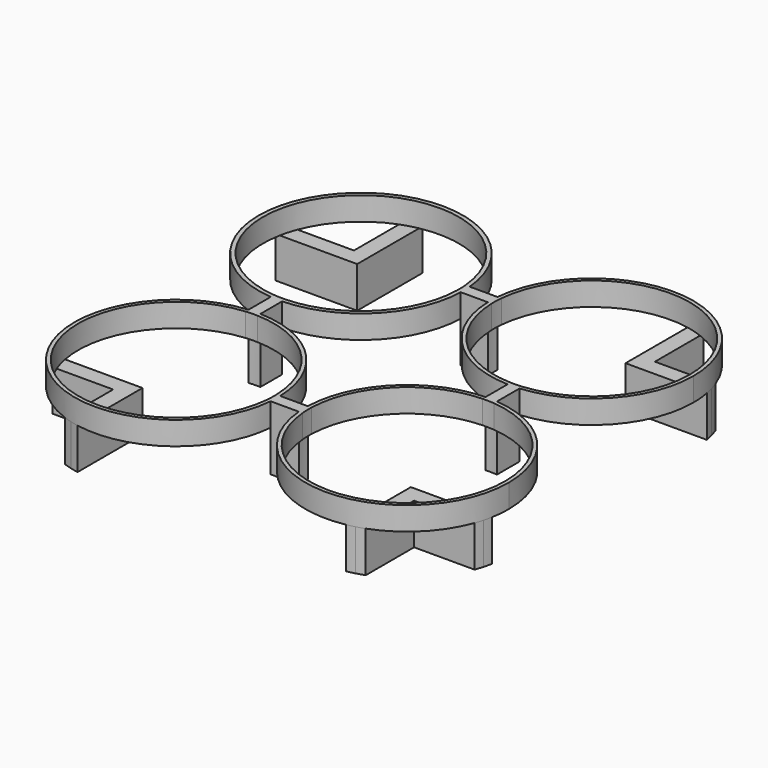
from build123d import *

# Parameters (mm, degrees)
F1_DEPTH = 6.35
F2_DEPTH = 11.176
F4_DEPTH = 11.176


with BuildPart() as f1:
    # F0 (on Top) → F1 (new body)
    with BuildSketch(Plane.XY):
        with BuildLine():
            ThreePointArc((-4.8690185181, 33.81375), (-4.7891429375, 32.6243156063), (-4.7625, 31.4325))
            ThreePointArc((-4.7625, 31.4325), (-4.7654537568, 31.0355810404), (-4.7743143727, 30.63875))
            Line((-4.7743143727, 30.63875), (-3.6308286485, 30.63875))
            ThreePointArc((-3.6308286485, 30.63875), (-3.6223323063, 31.0355845806), (-3.6195, 31.4325))
            ThreePointArc((-3.6195, 31.4325), (-3.64504287, 32.6242194499), (-3.7216245639, 33.81375))
            Line((-3.7216245639, 33.81375), (-4.8690185181, 33.81375))
        make_face()
        with BuildLine():
            ThreePointArc((-33.81375, 4.8690185181), (-50.2910378542, 50.2910378542), (-4.8690185181, 33.81375))
            Line((-4.8690185181, 33.81375), (-3.7216245639, 33.81375))
            ThreePointArc((-3.7216245639, 33.81375), (-51.0992609051, 51.0992609051), (-33.81375, 3.7216245639))
            Line((-33.81375, 3.7216245639), (-33.81375, 4.8690185181))
        make_face()
        with BuildLine():
            ThreePointArc((-30.63875, 4.7743143727), (-32.2276611669, 4.7743564277), (-33.81375, 4.8690185181))
            Line((-33.81375, 4.8690185181), (-33.81375, 3.7216245639))
            ThreePointArc((-33.81375, 3.7216245639), (-32.2275471917, 3.6308657142), (-30.63875, 3.6308286485))
            Line((-30.63875, 3.6308286485), (-30.63875, 4.7743143727))
        make_face()
        with BuildLine():
            Line((3.8490947636, 33.81375), (-3.7216245639, 33.81375))
            ThreePointArc((-3.7216245639, 33.81375), (-3.64504287, 32.6242194499), (-3.6195, 31.4325))
            ThreePointArc((-3.6195, 31.4325), (-3.6223323063, 31.0355845806), (-3.6308286485, 30.63875))
            Line((-3.6308286485, 30.63875), (3.7578806361, 30.63875))
            ThreePointArc((3.7578806361, 30.63875), (3.7579182157, 32.2275591593), (3.8490947636, 33.81375))
        make_face()
        with BuildLine():
            ThreePointArc((-30.63875, 3.6308286485), (-32.2275471917, 3.6308657142), (-33.81375, 3.7216245639))
            Line((-33.81375, 3.7216245639), (-33.81375, -3.8490947636))
            ThreePointArc((-33.81375, -3.8490947636), (-32.2275591593, -3.7579182157), (-30.63875, -3.7578806361))
            Line((-30.63875, -3.7578806361), (-30.63875, 3.6308286485))
        make_face()
        with BuildLine():
            Line((4.8690185181, 33.81375), (3.8490947636, 33.81375))
            ThreePointArc((3.8490947636, 33.81375), (3.7579182157, 32.2275591593), (3.7578806361, 30.63875))
            Line((3.7578806361, 30.63875), (4.7743143727, 30.63875))
            ThreePointArc((4.7743143727, 30.63875), (4.7743564277, 32.2276611669), (4.8690185181, 33.81375))
        make_face()
        with BuildLine():
            ThreePointArc((59.1185, 31.4325), (32.6242295465, 59.0928394174), (3.8490947636, 33.81375))
            Line((3.8490947636, 33.81375), (4.8690185181, 33.81375))
            ThreePointArc((4.8690185181, 33.81375), (32.6243156063, 58.0758570625), (58.1025, 31.4325))
            ThreePointArc((58.1025, 31.4325), (51.1149393496, 13.4355424446), (33.81375, 4.8690185181))
            Line((33.81375, 4.8690185181), (33.81375, 3.8490947636))
            ThreePointArc((33.81375, 3.8490947636), (51.8339936157, 12.7163664717), (59.1185, 31.4325))
        make_face()
        with BuildLine():
            Line((-33.81375, -4.8690185181), (-33.81375, -3.8490947636))
            ThreePointArc((-33.81375, -3.8490947636), (-51.0094583439, -51.0094583439), (-3.8490947636, -33.81375))
            Line((-3.8490947636, -33.81375), (-4.8690185181, -33.81375))
            ThreePointArc((-4.8690185181, -33.81375), (-50.2910378542, -50.2910378542), (-33.81375, -4.8690185181))
        make_face()
        with BuildLine():
            ThreePointArc((-30.63875, -3.7578806361), (-32.2275591593, -3.7579182157), (-33.81375, -3.8490947636))
            Line((-33.81375, -3.8490947636), (-33.81375, -4.8690185181))
            ThreePointArc((-33.81375, -4.8690185181), (-32.2276611669, -4.7743564277), (-30.63875, -4.7743143727))
            Line((-30.63875, -4.7743143727), (-30.63875, -3.7578806361))
        make_face()
        with BuildLine():
            Line((30.63875, 4.7743143727), (30.63875, 3.7578806361))
            ThreePointArc((30.63875, 3.7578806361), (32.2275591593, 3.7579182157), (33.81375, 3.8490947636))
            Line((33.81375, 3.8490947636), (33.81375, 4.8690185181))
            ThreePointArc((33.81375, 4.8690185181), (32.2276611669, 4.7743564277), (30.63875, 4.7743143727))
        make_face()
        with BuildLine():
            ThreePointArc((33.81375, 3.8490947636), (32.2275591593, 3.7579182157), (30.63875, 3.7578806361))
            Line((30.63875, 3.7578806361), (30.63875, -3.7578806361))
            ThreePointArc((30.63875, -3.7578806361), (32.2275591593, -3.7579182157), (33.81375, -3.8490947636))
            Line((33.81375, -3.8490947636), (33.81375, 3.8490947636))
        make_face()
        with BuildLine():
            Line((-4.8690185181, -33.81375), (-3.8490947636, -33.81375))
            ThreePointArc((-3.8490947636, -33.81375), (-3.7721605826, -32.6242295465), (-3.7465, -31.4325))
            ThreePointArc((-3.7465, -31.4325), (-3.7493453052, -31.0355842087), (-3.7578806361, -30.63875))
            Line((-3.7578806361, -30.63875), (-4.7743143727, -30.63875))
            ThreePointArc((-4.7743143727, -30.63875), (-4.7654537568, -31.0355810404), (-4.7625, -31.4325))
            ThreePointArc((-4.7625, -31.4325), (-4.7891429375, -32.6243156063), (-4.8690185181, -33.81375))
        make_face()
        with BuildLine():
            ThreePointArc((-3.7465, -31.4325), (-3.7721605826, -32.6242295465), (-3.8490947636, -33.81375))
            Line((-3.8490947636, -33.81375), (3.8490947636, -33.81375))
            ThreePointArc((3.8490947636, -33.81375), (3.7579182157, -32.2275591593), (3.7578806361, -30.63875))
            Line((3.7578806361, -30.63875), (-3.7578806361, -30.63875))
            ThreePointArc((-3.7578806361, -30.63875), (-3.7493453052, -31.0355842087), (-3.7465, -31.4325))
        make_face()
        with BuildLine():
            ThreePointArc((33.81375, -3.8490947636), (32.2275591593, -3.7579182157), (30.63875, -3.7578806361))
            Line((30.63875, -3.7578806361), (30.63875, -4.7743143727))
            ThreePointArc((30.63875, -4.7743143727), (32.2276611669, -4.7743564277), (33.81375, -4.8690185181))
            Line((33.81375, -4.8690185181), (33.81375, -3.8490947636))
        make_face()
        with BuildLine():
            Line((4.8690185181, -33.81375), (3.8490947636, -33.81375))
            ThreePointArc((3.8490947636, -33.81375), (32.6242295465, -59.0928394174), (59.1185, -31.4325))
            ThreePointArc((59.1185, -31.4325), (51.8339936157, -12.7163664717), (33.81375, -3.8490947636))
            Line((33.81375, -3.8490947636), (33.81375, -4.8690185181))
            ThreePointArc((33.81375, -4.8690185181), (51.1149393496, -13.4355424446), (58.1025, -31.4325))
            ThreePointArc((58.1025, -31.4325), (32.6243156063, -58.0758570625), (4.8690185181, -33.81375))
        make_face()
        with BuildLine():
            ThreePointArc((3.7578806361, -30.63875), (3.7579182157, -32.2275591593), (3.8490947636, -33.81375))
            Line((3.8490947636, -33.81375), (4.8690185181, -33.81375))
            ThreePointArc((4.8690185181, -33.81375), (4.7743564277, -32.2276611669), (4.7743143727, -30.63875))
            Line((4.7743143727, -30.63875), (3.7578806361, -30.63875))
        make_face()
        with BuildLine():
            Line((-3.6308286485, 30.63875), (-4.7743143727, 30.63875))
            ThreePointArc((-4.7743143727, 30.63875), (-12.5739621458, 12.5739621458), (-30.63875, 4.7743143727))
            Line((-30.63875, 4.7743143727), (-30.63875, 3.6308286485))
            ThreePointArc((-30.63875, 3.6308286485), (-11.7657390949, 11.7657390949), (-3.6308286485, 30.63875))
        make_face()
        with BuildLine():
            ThreePointArc((-3.7578806361, -30.63875), (-11.8555416561, -11.8555416561), (-30.63875, -3.7578806361))
            Line((-30.63875, -3.7578806361), (-30.63875, -4.7743143727))
            ThreePointArc((-30.63875, -4.7743143727), (-12.5739621458, -12.5739621458), (-4.7743143727, -30.63875))
            Line((-4.7743143727, -30.63875), (-3.7578806361, -30.63875))
        make_face()
        with BuildLine():
            Line((30.63875, -4.7743143727), (30.63875, -3.7578806361))
            ThreePointArc((30.63875, -3.7578806361), (11.8555416561, -11.8555416561), (3.7578806361, -30.63875))
            Line((3.7578806361, -30.63875), (4.7743143727, -30.63875))
            ThreePointArc((4.7743143727, -30.63875), (12.5739621458, -12.5739621458), (30.63875, -4.7743143727))
        make_face()
        with BuildLine():
            Line((4.7743143727, 30.63875), (3.7578806361, 30.63875))
            ThreePointArc((3.7578806361, 30.63875), (11.8555416561, 11.8555416561), (30.63875, 3.7578806361))
            Line((30.63875, 3.7578806361), (30.63875, 4.7743143727))
            ThreePointArc((30.63875, 4.7743143727), (12.5739621458, 12.5739621458), (4.7743143727, 30.63875))
        make_face()
    extrude(amount=F1_DEPTH)

    # F0 (on Top) → F2 (join)
    with BuildSketch(Plane.XY):
        with BuildLine():
            ThreePointArc((-3.7465, -31.4325), (-3.7721605826, -32.6242295465), (-3.8490947636, -33.81375))
            Line((-3.8490947636, -33.81375), (3.8490947636, -33.81375))
            ThreePointArc((3.8490947636, -33.81375), (3.7579182157, -32.2275591593), (3.7578806361, -30.63875))
            Line((3.7578806361, -30.63875), (-3.7578806361, -30.63875))
            ThreePointArc((-3.7578806361, -30.63875), (-3.7493453052, -31.0355842087), (-3.7465, -31.4325))
        make_face()
        with BuildLine():
            ThreePointArc((-30.63875, 3.6308286485), (-32.2275471917, 3.6308657142), (-33.81375, 3.7216245639))
            Line((-33.81375, 3.7216245639), (-33.81375, -3.8490947636))
            ThreePointArc((-33.81375, -3.8490947636), (-32.2275591593, -3.7579182157), (-30.63875, -3.7578806361))
            Line((-30.63875, -3.7578806361), (-30.63875, 3.6308286485))
        make_face()
        with BuildLine():
            Line((3.8490947636, 33.81375), (-3.7216245639, 33.81375))
            ThreePointArc((-3.7216245639, 33.81375), (-3.64504287, 32.6242194499), (-3.6195, 31.4325))
            ThreePointArc((-3.6195, 31.4325), (-3.6223323063, 31.0355845806), (-3.6308286485, 30.63875))
            Line((-3.6308286485, 30.63875), (3.7578806361, 30.63875))
            ThreePointArc((3.7578806361, 30.63875), (3.7579182157, 32.2275591593), (3.8490947636, 33.81375))
        make_face()
        with BuildLine():
            ThreePointArc((33.81375, 3.8490947636), (32.2275591593, 3.7579182157), (30.63875, 3.7578806361))
            Line((30.63875, 3.7578806361), (30.63875, -3.7578806361))
            ThreePointArc((30.63875, -3.7578806361), (32.2275591593, -3.7579182157), (33.81375, -3.8490947636))
            Line((33.81375, -3.8490947636), (33.81375, 3.8490947636))
        make_face()
    extrude(amount=-F2_DEPTH)

    # F3 (on Top) → F4 (join)
    with BuildSketch(Plane.XY):
        with BuildLine():
            Line((-38.7477, 58.2662626501), (-38.7477, 38.7561204209))
            Line((-38.7477, 38.7561204209), (-58.2639657246, 38.7561204209))
            ThreePointArc((-58.2639657246, 38.7561204209), (-58.5416214169, 37.650096401), (-58.7737058888, 36.5336204209))
            Line((-58.7737058888, 36.5336204209), (-36.5252, 36.5336204209))
            Line((-36.5252, 36.5336204209), (-36.5252, 58.775275567))
            ThreePointArc((-36.5252, 58.775275567), (-37.641668152, 58.5435530939), (-38.7477, 58.2662626501))
        make_face()
        with BuildLine():
            Line((-58.2639657246, 38.7561204209), (-38.7477, 38.7561204209))
            Line((-38.7477, 38.7561204209), (-38.7477, 58.2662626501))
            ThreePointArc((-38.7477, 58.2662626501), (-39.8663666273, 57.9359500153), (-40.9702, 57.5590238352))
            Line((-40.9702, 57.5590238352), (-40.9702, 40.9786204209))
            Line((-40.9702, 40.9786204209), (-57.5559483541, 40.9786204209))
            ThreePointArc((-57.5559483541, 40.9786204209), (-57.9332661744, 39.8747959654), (-58.2639657246, 38.7561204209))
        make_face()
        with BuildLine():
            ThreePointArc((58.6445040874, 36.5336204209), (58.4112965044, 37.6501470771), (58.1322973762, 38.7561204209))
            Line((58.1322973762, 38.7561204209), (38.7477, 38.7561204209))
            Line((38.7477, 38.7561204209), (38.7477, 58.1346056278))
            ThreePointArc((38.7477, 58.1346056278), (37.6417187449, 58.413237547), (36.5252, 58.646081218))
            Line((36.5252, 58.646081218), (36.5252, 36.5336204209))
            Line((36.5252, 36.5336204209), (58.6445040874, 36.5336204209))
        make_face()
        with BuildLine():
            Line((38.7477, 38.7561204209), (58.1322973762, 38.7561204209))
            ThreePointArc((58.1322973762, 38.7561204209), (57.7999223583, 39.8748713598), (57.4206931059, 40.9786204209))
            Line((57.4206931059, 40.9786204209), (40.9702, 40.9786204209))
            Line((40.9702, 40.9786204209), (40.9702, 57.4237845914))
            ThreePointArc((40.9702, 57.4237845914), (39.8664419158, 57.8026198283), (38.7477, 58.1346056278))
            Line((38.7477, 58.1346056278), (38.7477, 38.7561204209))
        make_face()
        with BuildLine():
            Line((-58.1346056278, -38.7477), (-38.7477, -38.7477))
            Line((-38.7477, -38.7477), (-38.7477, -58.1346056278))
            ThreePointArc((-38.7477, -58.1346056278), (-37.6417187449, -58.413237547), (-36.5252, -58.646081218))
            Line((-36.5252, -58.646081218), (-36.5252, -36.5252))
            Line((-36.5252, -36.5252), (-58.646081218, -36.5252))
            ThreePointArc((-58.646081218, -36.5252), (-58.413237547, -37.6417187449), (-58.1346056278, -38.7477))
        make_face()
        with BuildLine():
            Line((-38.7477, -58.1346056278), (-38.7477, -38.7477))
            Line((-38.7477, -38.7477), (-58.1346056278, -38.7477))
            ThreePointArc((-58.1346056278, -38.7477), (-57.8026198283, -39.8664419158), (-57.4237845914, -40.9702))
            Line((-57.4237845914, -40.9702), (-40.9702, -40.9702))
            Line((-40.9702, -40.9702), (-40.9702, -57.4237845914))
            ThreePointArc((-40.9702, -57.4237845914), (-39.8664419158, -57.8026198283), (-38.7477, -58.1346056278))
        make_face()
        with BuildLine():
            ThreePointArc((36.5252, -58.646081218), (37.6417187449, -58.413237547), (38.7477, -58.1346056278))
            Line((38.7477, -58.1346056278), (38.7477, -38.7477))
            Line((38.7477, -38.7477), (58.1346056278, -38.7477))
            ThreePointArc((58.1346056278, -38.7477), (58.413237547, -37.6417187449), (58.646081218, -36.5252))
            Line((58.646081218, -36.5252), (36.5252, -36.5252))
            Line((36.5252, -36.5252), (36.5252, -58.646081218))
        make_face()
        with BuildLine():
            Line((38.7477, -38.7477), (38.7477, -58.1346056278))
            ThreePointArc((38.7477, -58.1346056278), (39.8664419158, -57.8026198283), (40.9702, -57.4237845914))
            Line((40.9702, -57.4237845914), (40.9702, -40.9702))
            Line((40.9702, -40.9702), (57.4237845914, -40.9702))
            ThreePointArc((57.4237845914, -40.9702), (57.8026198283, -39.8664419158), (58.1346056278, -38.7477))
            Line((58.1346056278, -38.7477), (38.7477, -38.7477))
        make_face()
    extrude(amount=-F4_DEPTH)


solid = f1.part
